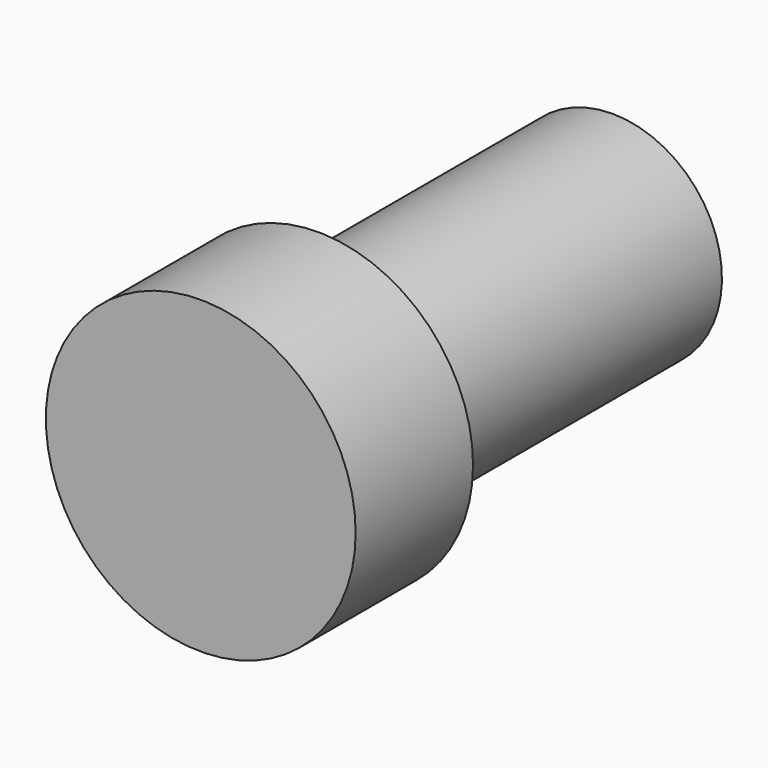
from build123d import *

# Parameters (mm, degrees)
F0_R     = 53.628325
F1_DEPTH = 50.8
F2_W     = 127.393812
F2_H     = 37.89334


with BuildPart() as f1:
    # F0 (on Front) → F1 (new body)
    with BuildSketch(Plane.XZ):
        Circle(F0_R)
    extrude(amount=F1_DEPTH)

    # F2 (on Right) → F3 (revolve)
    with BuildSketch(Plane.YZ):
        with Locations((63.696906, 18.94667)):
            Rectangle(F2_W, F2_H)
    revolve(axis=Axis((0, 63.696906, 0), (0, 1, 0)))


solid = f1.part
